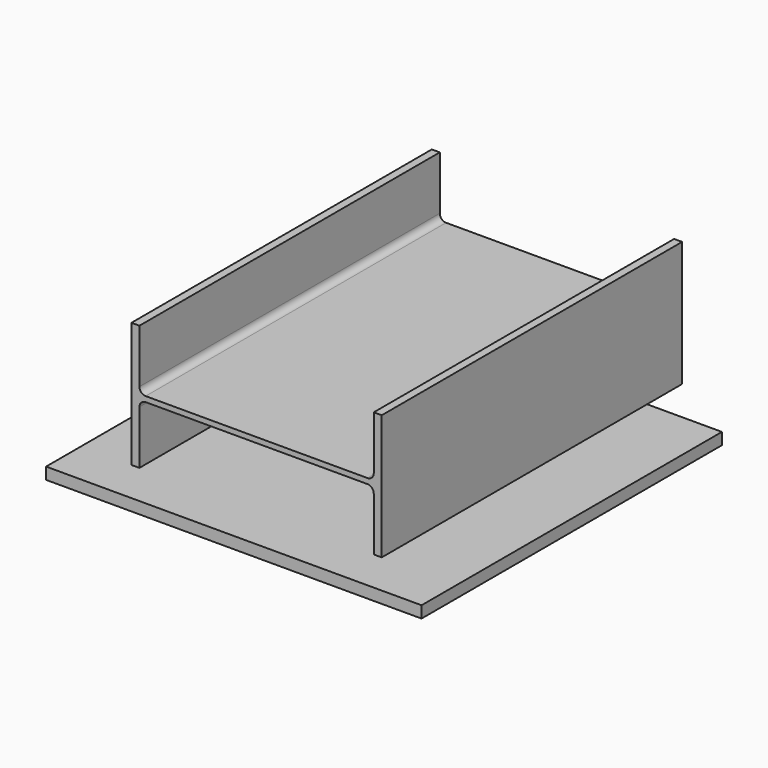
from build123d import *

# Parameters (mm, degrees)
F1_DEPTH = 152.4
F2_R     = 5.08
F3_W     = 304.8
F3_H     = 9.525
F4_DEPTH = 152.4


with BuildPart() as f1:
    # F0 (on Front) → F1 (new body, symmetric)
    with BuildSketch(Plane.XZ):
        Polygon((95.123, -50.8), (101.6, -50.8), (101.6, 50.8), (95.123, 50.8), (95.123, 2.159), (-95.123, 2.159), (-95.123, 50.8), (-101.6, 50.8), (-101.6, -50.8), (-95.123, -50.8), (-95.123, -2.159), (95.123, -2.159), align=None)
    extrude(amount=F1_DEPTH, both=True)

    # F2
    f2_edges = [f1.edges().sort_by_distance(p)[0] for p in [
        (-95.123, 0, 2.159),
        (-95.123, 0, -2.159),
        (95.123, 0, -2.159),
        (95.123, 0, 2.159),
    ]]
    fillet(f2_edges, radius=F2_R)


with BuildPart() as f4:
    # F3 (on Front) → F4 (new body, symmetric)
    with BuildSketch(Plane.XZ):
        with Locations((-18.482328, -79.252832)):
            Rectangle(F3_W, F3_H)
    extrude(amount=F4_DEPTH, both=True)


solid = Compound([f1.part, f4.part])
